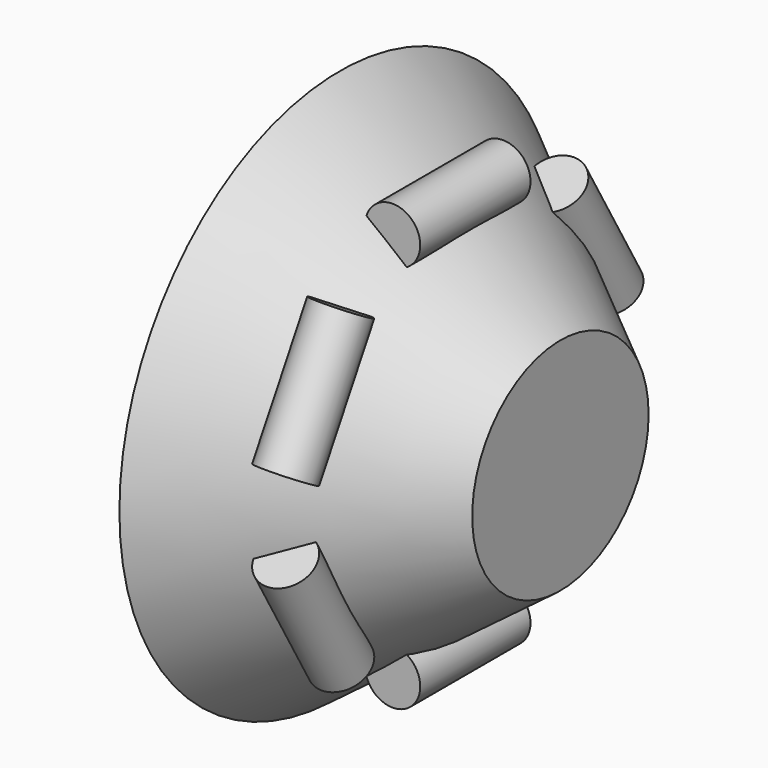
from build123d import *

# Parameters (mm, degrees)
F0_R     = 50
F2_R     = 20
F4_R     = 5
F5_DEPTH = 12.5
F6_COUNT = 6


with BuildPart() as f3:
    # F0 (on Right) → F3 section 0
    with BuildSketch(Plane.YZ):
        Circle(F0_R)
    # F2 (on offset) → F3 section 1
    with BuildSketch(Plane.YZ.offset(40)):
        Circle(F2_R)
    loft()


with BuildPart() as f5:
    # F4 (on Front) → F5 (new body, symmetric)
    with BuildSketch(Plane.XZ):
        with Locations((19.574137, 35.242353)):
            Circle(F4_R)
    extrude(amount=F5_DEPTH, both=True)


with BuildPart() as f6_1:
    # F6: instance of F5
    add(f5.part.rotate(Axis((-7.5, 0, 0), (-1, 0, 0)), 1 * 360 / F6_COUNT))


with BuildPart() as f6_2:
    # F6: instance of F5
    add(f5.part.rotate(Axis((-7.5, 0, 0), (-1, 0, 0)), 2 * 360 / F6_COUNT))


with BuildPart() as f6_3:
    # F6: instance of F5
    add(f5.part.rotate(Axis((-7.5, 0, 0), (-1, 0, 0)), 3 * 360 / F6_COUNT))


with BuildPart() as f6_4:
    # F6: instance of F5
    add(f5.part.rotate(Axis((-7.5, 0, 0), (-1, 0, 0)), 4 * 360 / F6_COUNT))


with BuildPart() as f6_5:
    # F6: instance of F5
    add(f5.part.rotate(Axis((-7.5, 0, 0), (-1, 0, 0)), 5 * 360 / F6_COUNT))


solid = Compound([f3.part, f5.part, f6_1.part, f6_2.part, f6_3.part, f6_4.part, f6_5.part])
